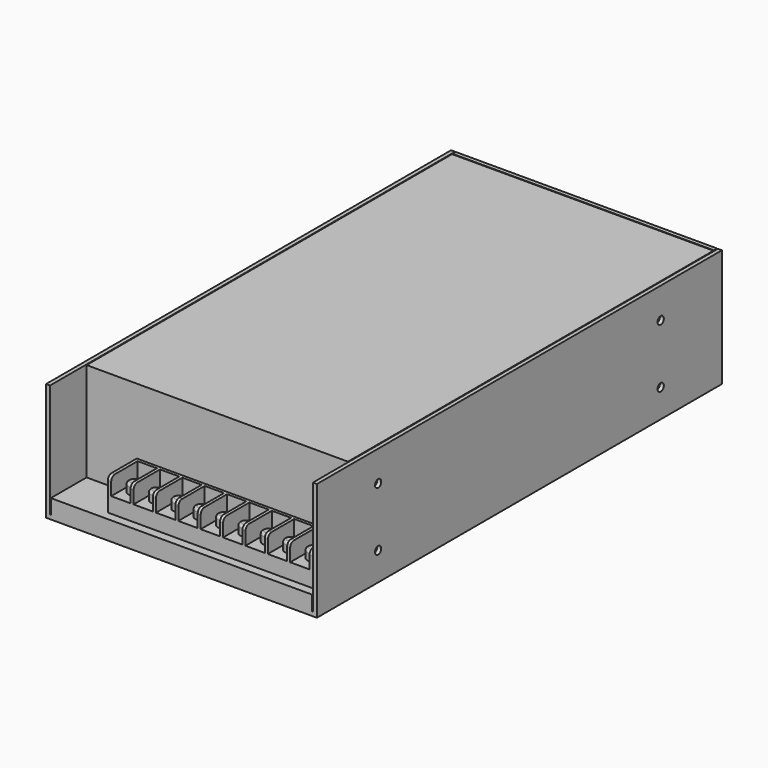
from build123d import *

# Parameters (mm, degrees)
F0_W             = 57.5
F0_H             = 50
F1_DEPTH         = 107.5
F2_W             = 55.8
F2_H             = 19
F3_DEPTH         = 42
F4_W             = 0.3
F4_H             = 19
F5_DEPTH         = 48.3
F7_W             = 87
F7_H             = 15.3
F8_DEPTH         = 14
F9_W             = 8.2
F9_H             = 14
F10_DEPTH        = 7.4
F11_R            = 2
F12_R            = 2.5
F13_DEPTH        = 4
F14_R            = 1
F18_D            = 3.3
F18_DEPTH        = 5
F18_TIP          = 0.9914200214
F18_ON_F17_D     = 3.3
F18_ON_F17_DEPTH = 5
F18_ON_F17_TIP   = 0.9914200214
F18_ON_F16_D     = 3.3
F18_ON_F16_DEPTH = 5
F18_ON_F16_TIP   = 0.9914200214


with BuildPart() as f1:
    # F0 (on Front) → F1 (new body, symmetric)
    with BuildSketch(Plane.XZ):
        with Locations((-28.75, 0)):
            Rectangle(F0_W, F0_H)
    extrude(amount=F1_DEPTH, both=True)

    # F2 (on face) → F3 (cut)
    with BuildSketch(Plane.XY.offset(25)):
        with Locations((-27.9, -98)):
            Rectangle(F2_W, F2_H)
    extrude(amount=-F3_DEPTH, mode=Mode.SUBTRACT)

    # F4 (on face) → F5 (cut)
    with BuildSketch(Plane.XY.offset(25)):
        Polygon((-55.8, 107.5), (-55.8, -88.5), (-55.5, -88.5), (-55.5, 105.5), (0, 105.5), (0, 105.8), (-55.5, 105.8), (-55.5, 107.5), align=None)
        with Locations((-55.65, -98)):
            Rectangle(F4_W, F4_H)
    extrude(amount=-F5_DEPTH, mode=Mode.SUBTRACT)

    # F6: F1 across plane


with BuildPart() as f1_1:
    add(f1.part)
    add(f1.part.mirror(Plane.YZ))

    # F18
    with Locations(Plane(origin=(-57.5, 0, 0), x_dir=(0, -1, 0), z_dir=(-1, 0, 0))):
        with Locations((-75, -13), (75, -13)):
            Hole(F18_D / 2, depth=F18_DEPTH)
            with Locations((0, 0, -(F18_DEPTH + F18_TIP / 2))):  # 118° drill point
                Cone(0, F18_D / 2, F18_TIP, mode=Mode.SUBTRACT)

    # F18 on F17
    with Locations(Plane(origin=(0, 0, -25), x_dir=(1, 0, 0), z_dir=(0, 0, -1))):
        with Locations((-25, -75), (-25, 75), (25, -75), (25, 75)):
            Hole(F18_ON_F17_D / 2, depth=F18_ON_F17_DEPTH)
            with Locations((0, 0, -(F18_ON_F17_DEPTH + F18_ON_F17_TIP / 2))):  # 118° drill point
                Cone(0, F18_ON_F17_D / 2, F18_ON_F17_TIP, mode=Mode.SUBTRACT)

    # F18 on F16
    with Locations(Plane.YZ.offset(57.5)):
        with Locations((-75, -13), (-75, 12), (75, 12), (75, -13)):
            Hole(F18_ON_F16_D / 2, depth=F18_ON_F16_DEPTH)
            with Locations((0, 0, -(F18_ON_F16_DEPTH + F18_ON_F16_TIP / 2))):  # 118° drill point
                Cone(0, F18_ON_F16_D / 2, F18_ON_F16_TIP, mode=Mode.SUBTRACT)


with BuildPart() as f8:
    # F7 (on face) → F8 (new body)
    with BuildSketch(Plane.XY.offset(-17)):
        with Locations((9.3, -96.15)):
            Rectangle(F7_W, F7_H)
    extrude(amount=F8_DEPTH)

    # F9 (on face) → F10 (cut)
    with BuildSketch(Plane.XY.offset(-3)):
        with Locations((-28.7, -96.8)):
            Rectangle(F9_W, F9_H)
        with Locations((-19.2, -96.8)):
            Rectangle(F9_W, F9_H)
        with Locations((-9.7, -96.8)):
            Rectangle(F9_W, F9_H)
        with Locations((-0.2, -96.8)):
            Rectangle(F9_W, F9_H)
        with Locations((9.3, -96.8)):
            Rectangle(F9_W, F9_H)
        with Locations((18.8, -96.8)):
            Rectangle(F9_W, F9_H)
        with Locations((28.3, -96.8)):
            Rectangle(F9_W, F9_H)
        with Locations((37.8, -96.8)):
            Rectangle(F9_W, F9_H)
        with Locations((47.3, -96.8)):
            Rectangle(F9_W, F9_H)
    extrude(amount=-F10_DEPTH, mode=Mode.SUBTRACT)

    # F11
    f11_edges = [f8.edges().sort_by_distance(p)[0] for p in [
        (-33.5, -103.8, -3),
        (-23.95, -103.8, -3),
        (-14.45, -103.8, -3),
        (-4.95, -103.8, -3),
        (4.55, -103.8, -3),
        (14.05, -103.8, -3),
        (23.55, -103.8, -3),
        (33.05, -103.8, -3),
        (42.55, -103.8, -3),
        (52.1, -103.8, -3),
    ]]
    fillet(f11_edges, radius=F11_R)

    # F12 (on face) → F13 (join)
    with BuildSketch(Plane.XY.offset(-10.4)):
        with Locations((-28.7, -96.8)):
            Circle(F12_R)
        with Locations((-19.2, -96.8)):
            Circle(F12_R)
        with Locations((-9.7, -96.8)):
            Circle(F12_R)
        with Locations((-0.2, -96.8)):
            Circle(F12_R)
        with Locations((9.3, -96.8)):
            Circle(F12_R)
        with Locations((18.8, -96.8)):
            Circle(F12_R)
        with Locations((28.3, -96.8)):
            Circle(F12_R)
        with Locations((37.8, -96.8)):
            Circle(F12_R)
        with Locations((47.3, -96.8)):
            Circle(F12_R)
    extrude(amount=F13_DEPTH)

    # F14
    f14_edges = [f8.edges().sort_by_distance(p)[0] for p in [
        (-31.2, -96.8, -6.4),
        (-21.7, -96.8, -6.4),
        (-12.2, -96.8, -6.4),
        (-2.7, -96.8, -6.4),
        (6.8, -96.8, -6.4),
        (16.3, -96.8, -6.4),
        (25.8, -96.8, -6.4),
        (35.3, -96.8, -6.4),
        (44.8, -96.8, -6.4),
    ]]
    fillet(f14_edges, radius=F14_R)


solid = Compound([f1_1.part, f8.part])
